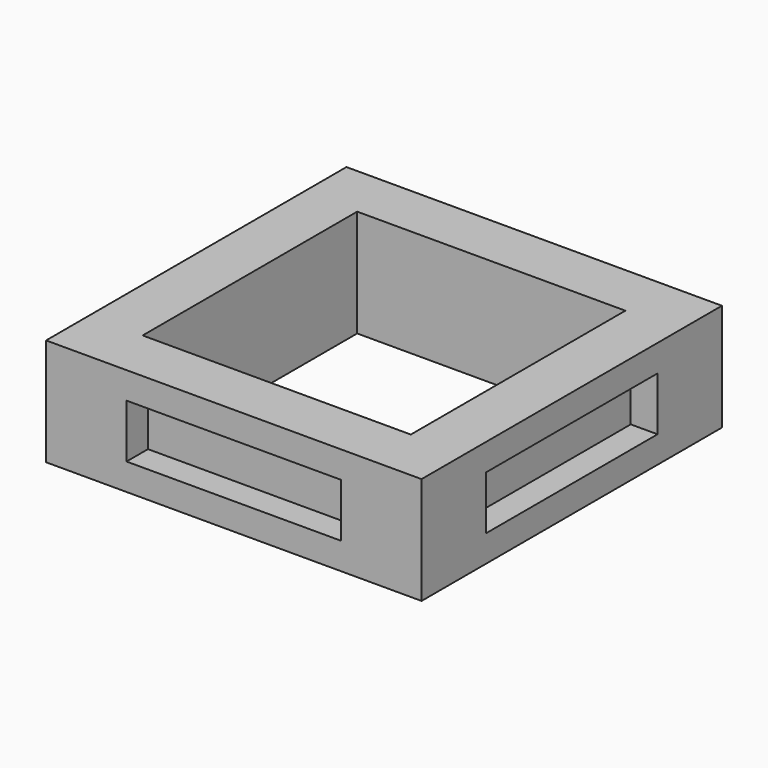
from build123d import *

# Parameters (mm, degrees)
F0_W     = 35.56
F0_H     = 35.56
F0_W_2   = 25.4
F0_H_2   = 25.4
F1_DEPTH = 5.08
F2_W     = 19.812
F2_H     = 4.572
F3_DEPTH = 2.54
F4_W     = 19.812
F4_H     = 4.572
F5_DEPTH = 2.54
F6_W     = 20.32
F6_H     = 5.08
F7_DEPTH = 2.54
F8_W     = 20.32
F8_H     = 5.08
F9_DEPTH = 2.54


with BuildPart() as f1:
    # F0 (on Top) → F1 (new body, symmetric)
    with BuildSketch(Plane.XY):
        Rectangle(F0_W, F0_H)
        Rectangle(F0_W_2, F0_H_2, mode=Mode.SUBTRACT)
    extrude(amount=F1_DEPTH, both=True)

    # F2 (on face) → F3 (join)
    with BuildSketch(Plane(origin=(-17.78, 0, 0), x_dir=(0, -1, 0), z_dir=(-1, 0, 0))):
        Rectangle(F2_W, F2_H)
    extrude(amount=F3_DEPTH)

    # F4 (on face) → F5 (join)
    with BuildSketch(Plane(origin=(0, 17.78, 0), x_dir=(-1, 0, 0), z_dir=(0, 1, 0))):
        Rectangle(F4_W, F4_H)
    extrude(amount=F5_DEPTH)

    # F6 (on face) → F7 (cut)
    with BuildSketch(Plane.YZ.offset(17.78)):
        Rectangle(F6_W, F6_H)
    extrude(amount=-F7_DEPTH, mode=Mode.SUBTRACT)

    # F8 (on face) → F9 (cut)
    with BuildSketch(Plane.XZ.offset(17.78)):
        Rectangle(F8_W, F8_H)
    extrude(amount=-F9_DEPTH, mode=Mode.SUBTRACT)


solid = f1.part
